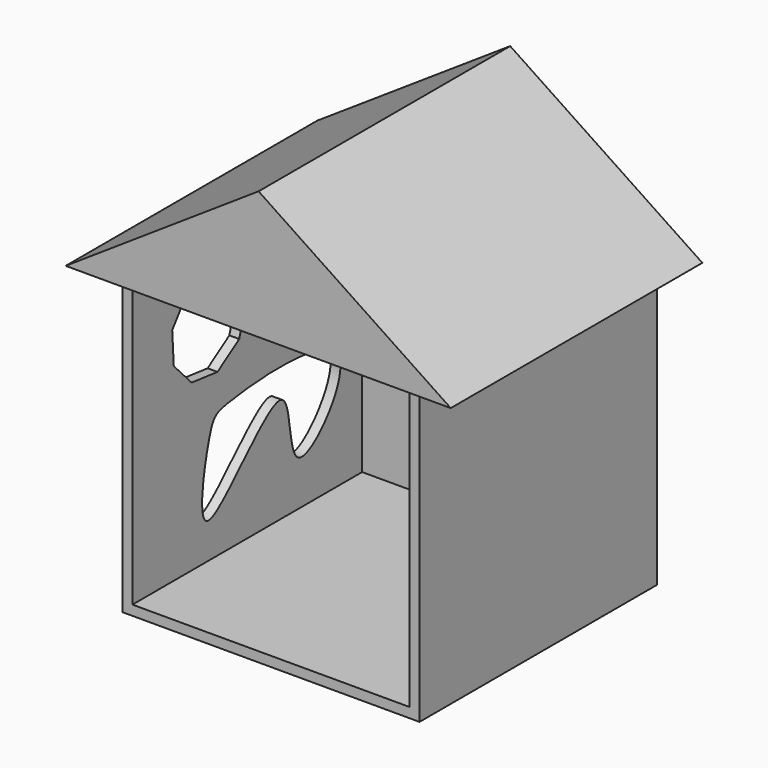
from build123d import *

# Parameters (mm, degrees)
F0_W     = 76.2
F0_H     = 76.2
F1_DEPTH = 76.2
F2_T     = -2.54
F4_DEPTH = 80.70275
F6_DEPTH = 72.34948
F7_DEPTH = 45.27984


with BuildPart() as f1:
    # F0 (on Front) → F1 (new body)
    with BuildSketch(Plane.XZ):
        Rectangle(F0_W, F0_H)
    extrude(amount=F1_DEPTH)

    # F2
    f2_openings = [f1.faces().sort_by_distance(p)[0] for p in [
        (0, -76.2, 0),
    ]]
    offset(amount=F2_T, openings=f2_openings)

    # F5 (on Right) → F6 (cut)
    with BuildSketch(Plane.YZ):
        Polygon((-62.9445649822, 12.9286607004), (-57.2077408433, 6.8695452064), (-48.9183542253, 5.9155529274), (-41.9551012531, 10.5130674533), (-39.5761653803, 18.5108606416), (-42.8946771407, 26.166676174), (-50.3578680004, 29.898272878), (-58.4736280121, 27.9595951837), (-63.4445028697, 21.2577719303), align=None)
    extrude(amount=-F6_DEPTH, mode=Mode.SUBTRACT)

    # F5 (on Right) → F7 (cut)
    with BuildSketch(Plane.YZ):
        Polygon((-35.9649943015, 15.0744534794), (-28.9213731885, 5.4552275687), (-17.0091336025, 4.9646630483), (-9.198434917, 13.9721650078), (-11.3708925516, 25.694900752), (-21.8906015972, 31.3054111655), (-32.8360065796, 26.5788674732), align=None)
        with BuildLine():
            add(Edge.make_bspline(
                [(-28.5172834992, -8.687954396), (-33.3256495404, -7.3079547514), (-58.7633130578, -42.5680563185), (-51.5076013001, -4.5466579825), (-47.6608822964, -1.8810588006), (6.3846242278, 2.4318586114), (-28.2828882588, -36.7901174711), (-24.9310420648, -9.7172046367), (-28.5172834992, -8.687954396)],
                knots=[0, 0, 0, 0, 0.199088632, 0.3599428724, 0.4622095381, 0.6821064913, 0.851512989, 1, 1, 1, 1], degree=3))
        make_face()
        Polygon((-62.9445649822, 12.9286607004), (-57.2077408433, 6.8695452064), (-48.9183542253, 5.9155529274), (-41.9551012531, 10.5130674533), (-39.5761653803, 18.5108606416), (-42.8946771407, 26.166676174), (-50.3578680004, 29.898272878), (-58.4736280121, 27.9595951837), (-63.4445028697, 21.2577719303), align=None)
    extrude(amount=-F7_DEPTH, mode=Mode.SUBTRACT)


with BuildPart() as f4:
    # F3 (on Front) → F4 (new body)
    with BuildSketch(Plane.XZ):
        Polygon((-49.0970462561, 38.3886359632), (49.7031807899, 38.3886359632), (0.4040895437, 71.3220462203), align=None)
    extrude(amount=F4_DEPTH)


solid = Compound([f1.part, f4.part])
